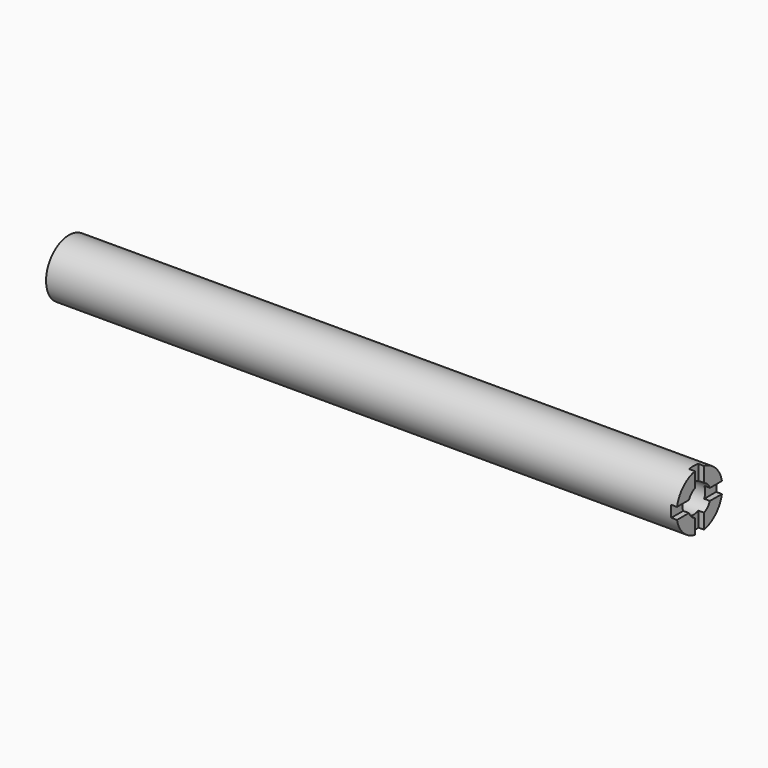
from build123d import *

# Parameters (mm, degrees)
F0_R     = 12.7
F1_DEPTH = 279.4
F2_R     = 6.35
F3_DEPTH = 2.54
F4_DEPTH = 19.05
F5_W     = 18.163441
F5_H     = 5.08
F5_W_2   = 5.08
F5_H_2   = 19.159987
F5_W_3   = 24.760097
F5_H_3   = 22.090506
F6_DEPTH = 2.54


with BuildPart() as f1:
    # F0 (on Right) → F1 (new body)
    with BuildSketch(Plane.YZ):
        Circle(F0_R)
    extrude(amount=F1_DEPTH)

    # F2 (on face) → F3 (cut)
    with BuildSketch(Plane.YZ.offset(279.4)):
        Circle(F2_R)
    extrude(amount=-F3_DEPTH, mode=Mode.SUBTRACT)

    # F2 (on face) → F4 (cut)
    with BuildSketch(Plane.YZ.offset(279.4)):
        Circle(F2_R)
    extrude(amount=-F4_DEPTH, mode=Mode.SUBTRACT)

    # F5 (on face) → F6 (cut)
    with BuildSketch(Plane.YZ.offset(279.4)):
        with Locations((-11.62172, 0)):
            Rectangle(F5_W, F5_H)
        with Locations((0, 12.119993)):
            Rectangle(F5_W_2, F5_H_2)
        with Locations((14.920048, 0)):
            Rectangle(F5_W_3, F5_H)
        with Locations((0, -13.585253)):
            Rectangle(F5_W_2, F5_H_3)
    extrude(amount=-F6_DEPTH, mode=Mode.SUBTRACT)


solid = f1.part
